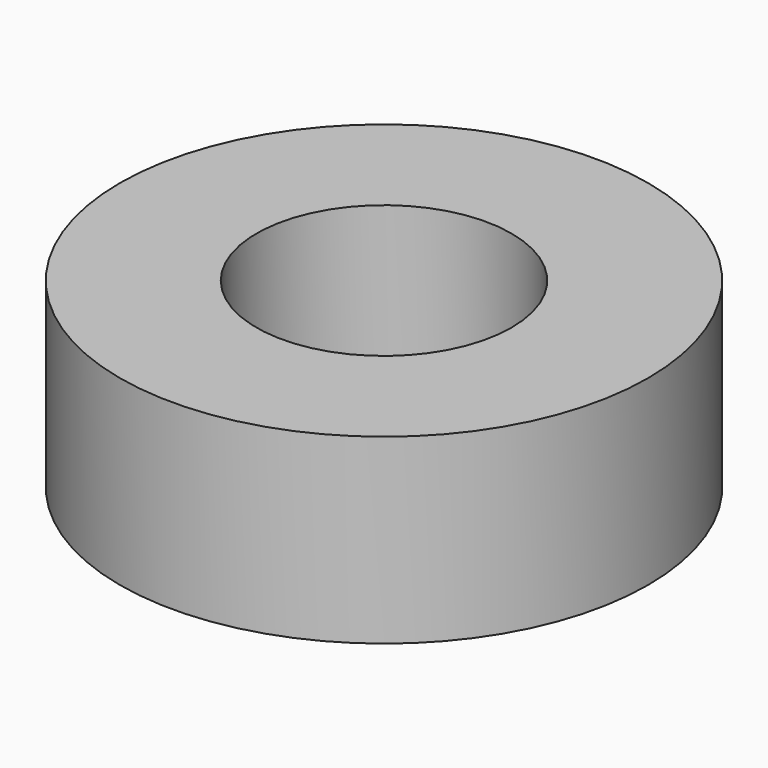
from build123d import *

# Parameters (mm, degrees)
CIRCLE014_R      = 1.4
EXTRUDE175_DEPTH = 2
CIRCLE_R         = 2.9
EXTRUDE174_DEPTH = 2


with BuildPart() as extrude175:
    # Circle014 → Extrude175 (new body)
    with BuildSketch(Plane(origin=(-18.702098, -10.934014, -1), x_dir=(1, 0, 0), z_dir=(0, 0, 1))):
        Circle(CIRCLE014_R)
    extrude(amount=-EXTRUDE175_DEPTH)


with BuildPart() as cut087:
    # Circle → Extrude174 (new body)
    with BuildSketch(Plane(origin=(-18.702098, -10.934014, -3), x_dir=(1, 0, 0), z_dir=(0, 0, 1))):
        Circle(CIRCLE_R)
    extrude(amount=EXTRUDE174_DEPTH)

    # Cut087: cut Extrude175
    add(extrude175.part, mode=Mode.SUBTRACT)


solid = cut087.part
